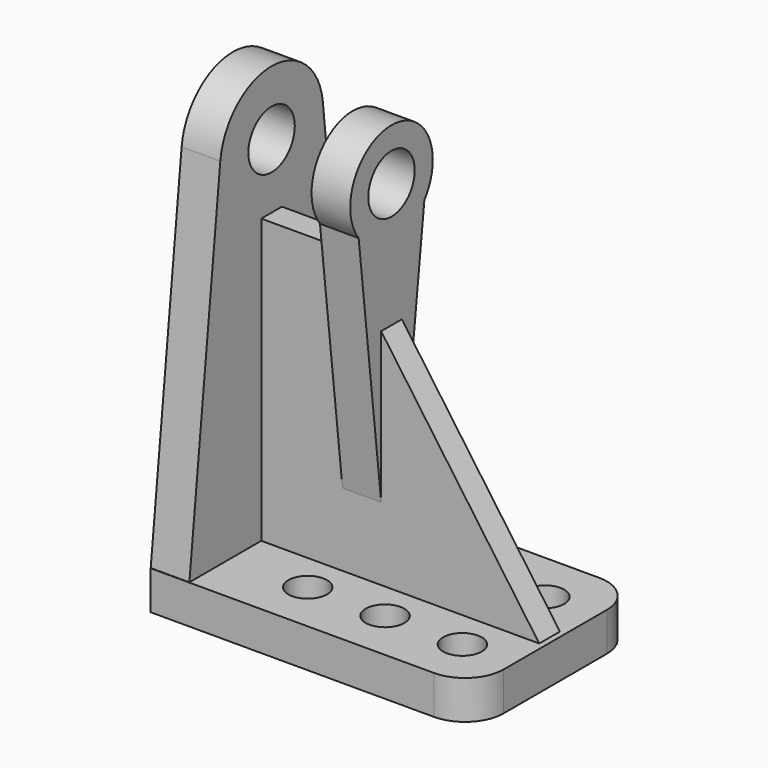
from build123d import *

# Parameters (mm, degrees)
F0_R          = 1.5
F0_W          = 3.5
F0_H          = 16
F1_DEPTH      = 3
F2_R          = 2.25
F3_DEPTH      = 3
F5_DEPTH      = 1
F5_DEPTH_BACK = 1
F7_R          = 2.25
F8_DEPTH      = 3


with BuildPart() as f1:
    # F0 (on Top) → F1 (new body)
    with BuildSketch(Plane.XY):
        with BuildLine():
            Line((3.5, 8), (3.5, -8))
            Line((3.5, -8), (22, -8))
            ThreePointArc((22, -8), (24.12132, -7.12132), (25, -5))
            Line((25, -5), (25, 5))
            ThreePointArc((25, 5), (24.12132, 7.12132), (22, 8))
            Line((22, 8), (3.5, 8))
        make_face()
        with Locations((9, -4)):
            Circle(F0_R, mode=Mode.SUBTRACT)
        with Locations((15, -4)):
            Circle(F0_R, mode=Mode.SUBTRACT)
        with Locations((21, -4)):
            Circle(F0_R, mode=Mode.SUBTRACT)
        with Locations((9, 4)):
            Circle(F0_R, mode=Mode.SUBTRACT)
        with Locations((15, 4)):
            Circle(F0_R, mode=Mode.SUBTRACT)
        with Locations((21, 4)):
            Circle(F0_R, mode=Mode.SUBTRACT)
        with Locations((1.75, 0)):
            Rectangle(F0_W, F0_H)
    extrude(amount=F1_DEPTH)

    # F2 (on Right) → F3 (join)
    with BuildSketch(Plane.YZ):
        with BuildLine():
            Line((8, 2.719934), (4.97062, 30.541236))
            ThreePointArc((4.97062, 30.541236), (0, 35), (-4.97062, 30.541236))
            Line((-4.97062, 30.541236), (-8, 2.719934))
            Line((-8, 2.719934), (8, 2.719934))
        make_face()
        with Locations((0, 30)):
            Circle(F2_R, mode=Mode.SUBTRACT)
    extrude(amount=F3_DEPTH)

    # F4 (on Front) → F5 (join, two sides)
    with BuildSketch(Plane.XZ) as f5_sk:
        Polygon((9, 25), (0, 25), (0, 2.631591), (24.820279, 2.631591), align=None)
    extrude(amount=F5_DEPTH)
    extrude(f5_sk.sketch, amount=-F5_DEPTH_BACK)

    # F7 (on offset) → F8 (join)
    with BuildSketch(Plane.YZ.offset(9.3)):
        with BuildLine():
            ThreePointArc((3.185419, 27.58068), (3.790889, 28.723613), (4, 30))
            ThreePointArc((4, 30), (-1.276387, 33.790889), (-3.185419, 27.58068))
            ThreePointArc((-3.185419, 27.58068), (0, 26), (3.185419, 27.58068))
        make_face()
        with Locations((0, 30)):
            Circle(F7_R, mode=Mode.SUBTRACT)
        with BuildLine():
            ThreePointArc((3.185419, 27.58068), (0, 26), (-3.185419, 27.58068))
            Line((-3.185419, 27.58068), (0, 0))
            Line((0, 0), (3.185419, 27.58068))
        make_face()
    extrude(amount=F8_DEPTH)


solid = f1.part
